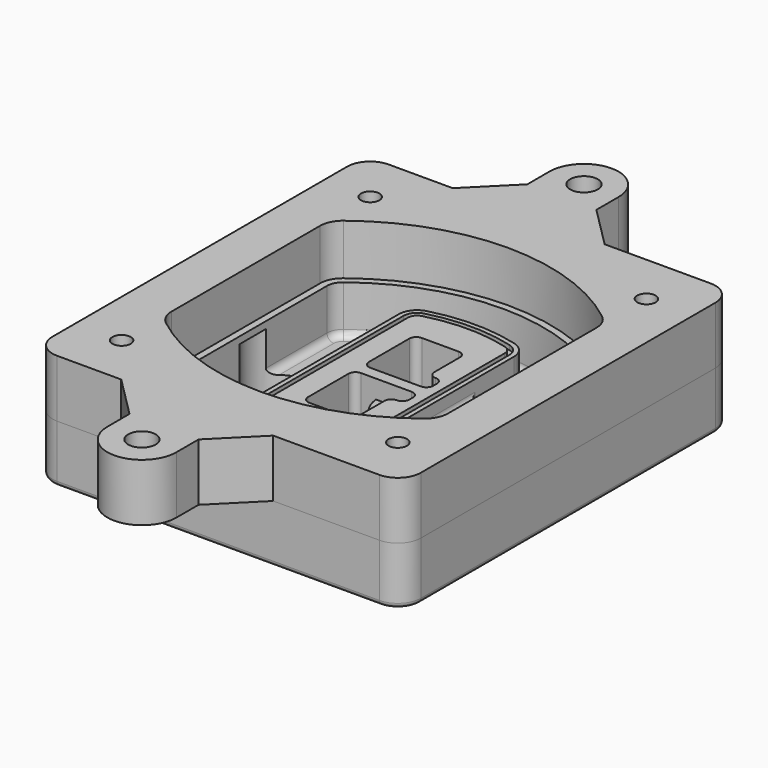
from build123d import *

# Parameters (mm, degrees)
F0_R      = 4
F1_DEPTH  = 25
F2_DEPTH  = 3
F3_DEPTH  = 18
F5_DEPTH  = 21
F6_DEPTH  = 2
F8_DEPTH  = 20
F9_DEPTH  = 16
F10_DEPTH = 25
F7_R      = 6
F7_R_2    = 4
F11_DEPTH = 6
F13_DEPTH = 9
F14_R     = 3
F15_R     = 2
F16_R     = 4
F16_R_2   = 6
F17_DEPTH = 25


with BuildPart() as f1:
    # F0 (on Top) → F1 (new body)
    with BuildSketch(Plane.XY):
        with BuildLine():
            ThreePointArc((-80, -80), (-77.0710678119, -87.0710678119), (-70, -90))
            Line((-70, -90), (70, -90))
            ThreePointArc((70, -90), (77.0710678119, -87.0710678119), (80, -80))
            Line((80, -80), (80, 80))
            ThreePointArc((80, 80), (77.0710678119, 87.0710678119), (70, 90))
            Line((70, 90), (-70, 90))
            ThreePointArc((-70, 90), (-77.0710678119, 87.0710678119), (-80, 80))
            Line((-80, 80), (-80, -80))
        make_face()
        with Locations((-60, -67.5)):
            Circle(F0_R, mode=Mode.SUBTRACT)
        with Locations((60, -67.5)):
            Circle(F0_R, mode=Mode.SUBTRACT)
        with Locations((-60, 67.5)):
            Circle(F0_R, mode=Mode.SUBTRACT)
        with BuildLine():
            ThreePointArc((-64, 40.2934422872), (-62.5820384798, 46.4328484224), (-58.6153846154, 51.3286200352))
            ThreePointArc((-58.6153846154, 51.3286200352), (0, 71.5), (58.6153846154, 51.3286200352))
            ThreePointArc((58.6153846154, 51.3286200352), (62.5820384798, 46.4328484224), (64, 40.2934422872))
            Line((64, 40.2934422872), (64, -40.2934422872))
            ThreePointArc((64, -40.2934422872), (62.5820384798, -46.4328484224), (58.6153846154, -51.3286200352))
            ThreePointArc((58.6153846154, -51.3286200352), (0, -71.5), (-58.6153846154, -51.3286200352))
            ThreePointArc((-58.6153846154, -51.3286200352), (-62.5820384798, -46.4328484224), (-64, -40.2934422872))
            Line((-64, -40.2934422872), (-64, 40.2934422872))
        make_face(mode=Mode.SUBTRACT)
        with Locations((60, 67.5)):
            Circle(F0_R, mode=Mode.SUBTRACT)
        with BuildLine():
            ThreePointArc((58.6153846154, 51.3286200352), (0, 71.5), (-58.6153846154, 51.3286200352))
            ThreePointArc((-58.6153846154, 51.3286200352), (-62.5820384798, 46.4328484224), (-64, 40.2934422872))
            Line((-64, 40.2934422872), (-64, -40.2934422872))
            ThreePointArc((-64, -40.2934422872), (-62.5820384798, -46.4328484224), (-58.6153846154, -51.3286200352))
            ThreePointArc((-58.6153846154, -51.3286200352), (0, -71.5), (58.6153846154, -51.3286200352))
            ThreePointArc((58.6153846154, -51.3286200352), (62.5820384798, -46.4328484224), (64, -40.2934422872))
            Line((64, -40.2934422872), (64, 40.2934422872))
            ThreePointArc((64, 40.2934422872), (62.5820384798, 46.4328484224), (58.6153846154, 51.3286200352))
        make_face()
        with BuildLine():
            Line((-60, -40.2934422872), (-60, 40.2934422872))
            ThreePointArc((-60, 40.2934422872), (-58.9871703427, 44.6787323838), (-56.1538461538, 48.1757121072))
            ThreePointArc((-56.1538461538, 48.1757121072), (0, 67.5), (56.1538461538, 48.1757121072))
            ThreePointArc((56.1538461538, 48.1757121072), (58.9871703427, 44.6787323838), (60, 40.2934422872))
            Line((60, 40.2934422872), (60, -40.2934422872))
            ThreePointArc((60, -40.2934422872), (58.9871703427, -44.6787323838), (56.1538461538, -48.1757121072))
            ThreePointArc((56.1538461538, -48.1757121072), (0, -67.5), (-56.1538461538, -48.1757121072))
            ThreePointArc((-56.1538461538, -48.1757121072), (-58.9871703427, -44.6787323838), (-60, -40.2934422872))
        make_face(mode=Mode.SUBTRACT)
        with BuildLine():
            ThreePointArc((-56.1538461538, 48.1757121072), (-58.9871703427, 44.6787323838), (-60, 40.2934422872))
            Line((-60, 40.2934422872), (-60, -40.2934422872))
            ThreePointArc((-60, -40.2934422872), (-58.9871703427, -44.6787323838), (-56.1538461538, -48.1757121072))
            ThreePointArc((-56.1538461538, -48.1757121072), (0, -67.5), (56.1538461538, -48.1757121072))
            ThreePointArc((56.1538461538, -48.1757121072), (58.9871703427, -44.6787323838), (60, -40.2934422872))
            Line((60, -40.2934422872), (60, 40.2934422872))
            ThreePointArc((60, 40.2934422872), (58.9871703427, 44.6787323838), (56.1538461538, 48.1757121072))
            ThreePointArc((56.1538461538, 48.1757121072), (0, 67.5), (-56.1538461538, 48.1757121072))
        make_face()
        with BuildLine():
            ThreePointArc((54.3076923077, 45.8110311612), (56.2910192399, 43.3631453548), (57, 40.2934422872))
            Line((57, 40.2934422872), (57, -40.2934422872))
            ThreePointArc((57, -40.2934422872), (56.2910192399, -43.3631453548), (54.3076923077, -45.8110311612))
            ThreePointArc((54.3076923077, -45.8110311612), (0, -64.5), (-54.3076923077, -45.8110311612))
            ThreePointArc((-54.3076923077, -45.8110311612), (-56.2910192399, -43.3631453548), (-57, -40.2934422872))
            Line((-57, -40.2934422872), (-57, 40.2934422872))
            ThreePointArc((-57, 40.2934422872), (-56.2910192399, 43.3631453548), (-54.3076923077, 45.8110311612))
            ThreePointArc((-54.3076923077, 45.8110311612), (0, 64.5), (54.3076923077, 45.8110311612))
        make_face(mode=Mode.SUBTRACT)
        with BuildLine():
            Line((57, -40.2934422872), (57, 40.2934422872))
            ThreePointArc((57, 40.2934422872), (56.2910192399, 43.3631453548), (54.3076923077, 45.8110311612))
            ThreePointArc((54.3076923077, 45.8110311612), (0, 64.5), (-54.3076923077, 45.8110311612))
            ThreePointArc((-54.3076923077, 45.8110311612), (-56.2910192399, 43.3631453548), (-57, 40.2934422872))
            Line((-57, 40.2934422872), (-57, -40.2934422872))
            ThreePointArc((-57, -40.2934422872), (-56.2910192399, -43.3631453548), (-54.3076923077, -45.8110311612))
            ThreePointArc((-54.3076923077, -45.8110311612), (0, -64.5), (54.3076923077, -45.8110311612))
            ThreePointArc((54.3076923077, -45.8110311612), (56.2910192399, -43.3631453548), (57, -40.2934422872))
        make_face()
    extrude(amount=-F1_DEPTH)

    # F0 (on Top) → F2 (join)
    with BuildSketch(Plane.XY):
        with BuildLine():
            ThreePointArc((-56.1538461538, 48.1757121072), (-58.9871703427, 44.6787323838), (-60, 40.2934422872))
            Line((-60, 40.2934422872), (-60, -40.2934422872))
            ThreePointArc((-60, -40.2934422872), (-58.9871703427, -44.6787323838), (-56.1538461538, -48.1757121072))
            ThreePointArc((-56.1538461538, -48.1757121072), (0, -67.5), (56.1538461538, -48.1757121072))
            ThreePointArc((56.1538461538, -48.1757121072), (58.9871703427, -44.6787323838), (60, -40.2934422872))
            Line((60, -40.2934422872), (60, 40.2934422872))
            ThreePointArc((60, 40.2934422872), (58.9871703427, 44.6787323838), (56.1538461538, 48.1757121072))
            ThreePointArc((56.1538461538, 48.1757121072), (0, 67.5), (-56.1538461538, 48.1757121072))
        make_face()
        with BuildLine():
            ThreePointArc((54.3076923077, 45.8110311612), (56.2910192399, 43.3631453548), (57, 40.2934422872))
            Line((57, 40.2934422872), (57, -40.2934422872))
            ThreePointArc((57, -40.2934422872), (56.2910192399, -43.3631453548), (54.3076923077, -45.8110311612))
            ThreePointArc((54.3076923077, -45.8110311612), (0, -64.5), (-54.3076923077, -45.8110311612))
            ThreePointArc((-54.3076923077, -45.8110311612), (-56.2910192399, -43.3631453548), (-57, -40.2934422872))
            Line((-57, -40.2934422872), (-57, 40.2934422872))
            ThreePointArc((-57, 40.2934422872), (-56.2910192399, 43.3631453548), (-54.3076923077, 45.8110311612))
            ThreePointArc((-54.3076923077, 45.8110311612), (0, 64.5), (54.3076923077, 45.8110311612))
        make_face(mode=Mode.SUBTRACT)
    extrude(amount=F2_DEPTH)

    # F0 (on Top) → F3 (cut)
    with BuildSketch(Plane.XY):
        with BuildLine():
            Line((57, -40.2934422872), (57, 40.2934422872))
            ThreePointArc((57, 40.2934422872), (56.2910192399, 43.3631453548), (54.3076923077, 45.8110311612))
            ThreePointArc((54.3076923077, 45.8110311612), (0, 64.5), (-54.3076923077, 45.8110311612))
            ThreePointArc((-54.3076923077, 45.8110311612), (-56.2910192399, 43.3631453548), (-57, 40.2934422872))
            Line((-57, 40.2934422872), (-57, -40.2934422872))
            ThreePointArc((-57, -40.2934422872), (-56.2910192399, -43.3631453548), (-54.3076923077, -45.8110311612))
            ThreePointArc((-54.3076923077, -45.8110311612), (0, -64.5), (54.3076923077, -45.8110311612))
            ThreePointArc((54.3076923077, -45.8110311612), (56.2910192399, -43.3631453548), (57, -40.2934422872))
        make_face()
    extrude(amount=-F3_DEPTH, mode=Mode.SUBTRACT)

    # F4 (on face) → F5 (join, through all)
    with BuildSketch(Plane.XY.offset(3)):
        with BuildLine():
            ThreePointArc((-25, -39.2465276821), (-23.3511545998, -44.1109737193), (-19.0842911877, -46.9702398883))
            ThreePointArc((-19.0842911877, -46.9702398883), (0, -49.5), (19.0842911877, -46.9702398883))
            ThreePointArc((19.0842911877, -46.9702398883), (23.3511545998, -44.1109737193), (25, -39.2465276821))
            Line((25, -39.2465276821), (25, 39.2465276821))
            ThreePointArc((25, 39.2465276821), (23.3511545998, 44.1109737193), (19.0842911877, 46.9702398883))
            ThreePointArc((19.0842911877, 46.9702398883), (0, 49.5), (-19.0842911877, 46.9702398883))
            ThreePointArc((-19.0842911877, 46.9702398883), (-23.3511545998, 44.1109737193), (-25, 39.2465276821))
            Line((-25, 39.2465276821), (-25, -39.2465276821))
        make_face()
        with BuildLine():
            ThreePointArc((18.5632183908, 45.0393118368), (21.7633659499, 42.89486221), (23, 39.2465276821))
            Line((23, 39.2465276821), (23, -39.2465276821))
            ThreePointArc((23, -39.2465276821), (21.7633659499, -42.89486221), (18.5632183908, -45.0393118368))
            ThreePointArc((18.5632183908, -45.0393118368), (0, -47.5), (-18.5632183908, -45.0393118368))
            ThreePointArc((-18.5632183908, -45.0393118368), (-21.7633659499, -42.89486221), (-23, -39.2465276821))
            Line((-23, -39.2465276821), (-23, 39.2465276821))
            ThreePointArc((-23, 39.2465276821), (-21.7633659499, 42.89486221), (-18.5632183908, 45.0393118368))
            ThreePointArc((-18.5632183908, 45.0393118368), (0, 47.5), (18.5632183908, 45.0393118368))
        make_face(mode=Mode.SUBTRACT)
        with BuildLine():
            Line((23, -39.2465276821), (23, 39.2465276821))
            ThreePointArc((23, 39.2465276821), (21.7633659499, 42.89486221), (18.5632183908, 45.0393118368))
            ThreePointArc((18.5632183908, 45.0393118368), (0, 47.5), (-18.5632183908, 45.0393118368))
            ThreePointArc((-18.5632183908, 45.0393118368), (-21.7633659499, 42.89486221), (-23, 39.2465276821))
            Line((-23, 39.2465276821), (-23, -39.2465276821))
            ThreePointArc((-23, -39.2465276821), (-21.7633659499, -42.89486221), (-18.5632183908, -45.0393118368))
            ThreePointArc((-18.5632183908, -45.0393118368), (0, -47.5), (18.5632183908, -45.0393118368))
            ThreePointArc((18.5632183908, -45.0393118368), (21.7633659499, -42.89486221), (23, -39.2465276821))
        make_face()
        with BuildLine():
            ThreePointArc((18.0421455939, 43.1083837852), (20.1755772999, 41.6787507007), (21, 39.2465276821))
            Line((21, 39.2465276821), (21, -39.2465276821))
            ThreePointArc((21, -39.2465276821), (20.1755772999, -41.6787507007), (18.0421455939, -43.1083837852))
            ThreePointArc((18.0421455939, -43.1083837852), (0, -45.5), (-18.0421455939, -43.1083837852))
            ThreePointArc((-18.0421455939, -43.1083837852), (-20.1755772999, -41.6787507007), (-21, -39.2465276821))
            Line((-21, -39.2465276821), (-21, 39.2465276821))
            ThreePointArc((-21, 39.2465276821), (-20.1755772999, 41.6787507007), (-18.0421455939, 43.1083837852))
            ThreePointArc((-18.0421455939, 43.1083837852), (0, 45.5), (18.0421455939, 43.1083837852))
        make_face(mode=Mode.SUBTRACT)
        with BuildLine():
            Line((21, -39.2465276821), (21, 39.2465276821))
            ThreePointArc((21, 39.2465276821), (20.1755772999, 41.6787507007), (18.0421455939, 43.1083837852))
            ThreePointArc((18.0421455939, 43.1083837852), (0, 45.5), (-18.0421455939, 43.1083837852))
            ThreePointArc((-18.0421455939, 43.1083837852), (-20.1755772999, 41.6787507007), (-21, 39.2465276821))
            Line((-21, 39.2465276821), (-21, -39.2465276821))
            ThreePointArc((-21, -39.2465276821), (-20.1755772999, -41.6787507007), (-18.0421455939, -43.1083837852))
            ThreePointArc((-18.0421455939, -43.1083837852), (0, -45.5), (18.0421455939, -43.1083837852))
            ThreePointArc((18.0421455939, -43.1083837852), (20.1755772999, -41.6787507007), (21, -39.2465276821))
        make_face()
        with BuildLine():
            Line((-8, -2.5), (14, -2.5))
            ThreePointArc((14, -2.5), (16.1213203436, -3.3786796564), (17, -5.5))
            Line((17, -5.5), (17, -7.5))
            ThreePointArc((17, -7.5), (16.1213203436, -9.6213203436), (14, -10.5))
            ThreePointArc((14, -10.5), (11.8786796564, -11.3786796564), (11, -13.5))
            Line((11, -13.5), (11, -27.5))
            ThreePointArc((11, -27.5), (10.1213203436, -29.6213203436), (8, -30.5))
            Line((8, -30.5), (-8, -30.5))
            ThreePointArc((-8, -30.5), (-10.1213203436, -29.6213203436), (-11, -27.5))
            Line((-11, -27.5), (-11, -5.5))
            ThreePointArc((-11, -5.5), (-10.1213203436, -3.3786796564), (-8, -2.5))
        make_face(mode=Mode.SUBTRACT)
        with BuildLine():
            ThreePointArc((-8, 2.5), (-10.1213203436, 3.3786796564), (-11, 5.5))
            Line((-11, 5.5), (-11, 27.5))
            ThreePointArc((-11, 27.5), (-10.1213203436, 29.6213203436), (-8, 30.5))
            Line((-8, 30.5), (8, 30.5))
            ThreePointArc((8, 30.5), (10.1213203436, 29.6213203436), (11, 27.5))
            Line((11, 27.5), (11, 13.5))
            ThreePointArc((11, 13.5), (11.8786796564, 11.3786796564), (14, 10.5))
            ThreePointArc((14, 10.5), (16.1213203436, 9.6213203436), (17, 7.5))
            Line((17, 7.5), (17, 5.5))
            ThreePointArc((17, 5.5), (16.1213203436, 3.3786796564), (14, 2.5))
            Line((14, 2.5), (-8, 2.5))
        make_face(mode=Mode.SUBTRACT)
    extrude(amount=-F5_DEPTH)

    # F4 (on face) → F6 (cut)
    with BuildSketch(Plane.XY.offset(3)):
        with BuildLine():
            Line((23, -39.2465276821), (23, 39.2465276821))
            ThreePointArc((23, 39.2465276821), (21.7633659499, 42.89486221), (18.5632183908, 45.0393118368))
            ThreePointArc((18.5632183908, 45.0393118368), (0, 47.5), (-18.5632183908, 45.0393118368))
            ThreePointArc((-18.5632183908, 45.0393118368), (-21.7633659499, 42.89486221), (-23, 39.2465276821))
            Line((-23, 39.2465276821), (-23, -39.2465276821))
            ThreePointArc((-23, -39.2465276821), (-21.7633659499, -42.89486221), (-18.5632183908, -45.0393118368))
            ThreePointArc((-18.5632183908, -45.0393118368), (0, -47.5), (18.5632183908, -45.0393118368))
            ThreePointArc((18.5632183908, -45.0393118368), (21.7633659499, -42.89486221), (23, -39.2465276821))
        make_face()
        with BuildLine():
            ThreePointArc((18.0421455939, 43.1083837852), (20.1755772999, 41.6787507007), (21, 39.2465276821))
            Line((21, 39.2465276821), (21, -39.2465276821))
            ThreePointArc((21, -39.2465276821), (20.1755772999, -41.6787507007), (18.0421455939, -43.1083837852))
            ThreePointArc((18.0421455939, -43.1083837852), (0, -45.5), (-18.0421455939, -43.1083837852))
            ThreePointArc((-18.0421455939, -43.1083837852), (-20.1755772999, -41.6787507007), (-21, -39.2465276821))
            Line((-21, -39.2465276821), (-21, 39.2465276821))
            ThreePointArc((-21, 39.2465276821), (-20.1755772999, 41.6787507007), (-18.0421455939, 43.1083837852))
            ThreePointArc((-18.0421455939, 43.1083837852), (0, 45.5), (18.0421455939, 43.1083837852))
        make_face(mode=Mode.SUBTRACT)
    extrude(amount=-F6_DEPTH, mode=Mode.SUBTRACT)

    # F7 (on face) → F8 (join)
    with BuildSketch(Plane(origin=(0, 0, -25), x_dir=(1, 0, 0), z_dir=(0, 0, -1))):
        with BuildLine():
            ThreePointArc((3.28842436, 0), (16.7567035675, 13.4682792075), (30.224982775, 0))
            Line((30.224982775, 0), (35.224982775, 0))
            ThreePointArc((35.224982775, 0), (16.7567035675, 18.4682792075), (-1.71157564, 0))
            Line((-1.71157564, 0), (3.28842436, 0))
        make_face()
        with BuildLine():
            Line((3.28842436, 0), (30.224982775, 0))
            ThreePointArc((30.224982775, 0), (16.7567035675, 13.4682792075), (3.28842436, 0))
        make_face()
        with BuildLine():
            ThreePointArc((3.28842436, 0), (16.7567035675, -13.4682792075), (30.224982775, 0))
            Line((30.224982775, 0), (3.28842436, 0))
        make_face()
        with BuildLine():
            Line((35.224982775, 0), (30.224982775, 0))
            ThreePointArc((30.224982775, 0), (16.7567035675, -13.4682792075), (3.28842436, 0))
            Line((3.28842436, 0), (-1.71157564, 0))
            ThreePointArc((-1.71157564, 0), (16.7567035675, -18.4682792075), (35.224982775, 0))
        make_face()
    extrude(amount=-F8_DEPTH)

    # F7 (on face) → F9 (cut)
    with BuildSketch(Plane(origin=(0, 0, -25), x_dir=(1, 0, 0), z_dir=(0, 0, -1))):
        with BuildLine():
            Line((3.28842436, 0), (30.224982775, 0))
            ThreePointArc((30.224982775, 0), (16.7567035675, 13.4682792075), (3.28842436, 0))
        make_face()
        with BuildLine():
            ThreePointArc((3.28842436, 0), (16.7567035675, -13.4682792075), (30.224982775, 0))
            Line((30.224982775, 0), (3.28842436, 0))
        make_face()
    extrude(amount=-F9_DEPTH, mode=Mode.SUBTRACT)

    # F7 (on face) → F10 (cut)
    with BuildSketch(Plane(origin=(0, 0, -25), x_dir=(1, 0, 0), z_dir=(0, 0, -1))):
        with BuildLine():
            Line((-59.0318229325, 0), (-32.0952645175, 0))
            ThreePointArc((-32.0952645175, 0), (-45.563543725, 13.4682792075), (-59.0318229325, 0))
        make_face()
        with BuildLine():
            ThreePointArc((-59.0318229325, 0), (-45.563543725, -13.4682792075), (-32.0952645175, 0))
            Line((-32.0952645175, 0), (-59.0318229325, 0))
        make_face()
    extrude(amount=-F10_DEPTH, mode=Mode.SUBTRACT)

    # F7 (on face) → F11 (cut)
    with BuildSketch(Plane(origin=(0, 0, -25), x_dir=(1, 0, 0), z_dir=(0, 0, -1))):
        with Locations((60, -67.5)):
            Circle(F7_R)
        with Locations((60, -67.5)):
            Circle(F7_R_2, mode=Mode.SUBTRACT)
        with Locations((60, -67.5)):
            Circle(F7_R)
        with Locations((60, -67.5)):
            Circle(F7_R_2, mode=Mode.SUBTRACT)
        with Locations((-60, -67.5)):
            Circle(F7_R)
        with Locations((-60, -67.5)):
            Circle(F7_R_2, mode=Mode.SUBTRACT)
        with Locations((-60, -67.5)):
            Circle(F7_R)
        with Locations((-60, -67.5)):
            Circle(F7_R_2, mode=Mode.SUBTRACT)
        with Locations((-60, 67.5)):
            Circle(F7_R)
        with Locations((-60, 67.5)):
            Circle(F7_R_2, mode=Mode.SUBTRACT)
        with Locations((-60, 67.5)):
            Circle(F7_R)
        with Locations((-60, 67.5)):
            Circle(F7_R_2, mode=Mode.SUBTRACT)
        with Locations((60, 67.5)):
            Circle(F7_R)
        with Locations((60, 67.5)):
            Circle(F7_R_2, mode=Mode.SUBTRACT)
        with Locations((60, 67.5)):
            Circle(F7_R)
        with Locations((60, 67.5)):
            Circle(F7_R_2, mode=Mode.SUBTRACT)
    extrude(amount=-F11_DEPTH, mode=Mode.SUBTRACT)

    # F12 (on face) → F13 (cut, through all)
    with BuildSketch(Plane(origin=(0, 0, -9), x_dir=(1, 0, 0), z_dir=(0, 0, -1))):
        with BuildLine():
            Line((11, 13.5), (11, 17.5481537753))
            ThreePointArc((11, 17.5481537753), (2.5696536419, 11.8239143813), (-1.5415842455, 2.5))
            Line((-1.5415842455, 2.5), (3.5224848595, 2.5))
            ThreePointArc((3.5224848595, 2.5), (6.1857188154, 8.3455872281), (11.2536447004, 12.2927168648))
            ThreePointArc((11.2536447004, 12.2927168648), (11.0640958889, 12.8831798879), (11, 13.5))
        make_face()
        with BuildLine():
            ThreePointArc((11.2536447004, -12.2927168648), (6.1857188154, -8.3455872281), (3.5224848595, -2.5))
            Line((3.5224848595, -2.5), (-1.5415842455, -2.5))
            ThreePointArc((-1.5415842455, -2.5), (2.5696536419, -11.8239143813), (11, -17.5481537753))
            Line((11, -17.5481537753), (11, -13.5))
            ThreePointArc((11, -13.5), (11.0640958889, -12.8831798879), (11.2536447004, -12.2927168648))
        make_face()
        with BuildLine():
            ThreePointArc((11.2536447004, 12.2927168648), (6.1857188154, 8.3455872281), (3.5224848595, 2.5))
            Line((3.5224848595, 2.5), (14, 2.5))
            ThreePointArc((14, 2.5), (16.1213203436, 3.3786796564), (17, 5.5))
            Line((17, 5.5), (17, 7.5))
            ThreePointArc((17, 7.5), (16.1213203436, 9.6213203436), (14, 10.5))
            ThreePointArc((14, 10.5), (12.3601599782, 10.9878446101), (11.2536447004, 12.2927168648))
        make_face()
        with BuildLine():
            Line((14, -2.5), (3.5224848595, -2.5))
            ThreePointArc((3.5224848595, -2.5), (6.1857188154, -8.3455872281), (11.2536447004, -12.2927168648))
            ThreePointArc((11.2536447004, -12.2927168648), (12.3601599782, -10.9878446101), (14, -10.5))
            ThreePointArc((14, -10.5), (16.1213203436, -9.6213203436), (17, -7.5))
            Line((17, -7.5), (17, -5.5))
            ThreePointArc((17, -5.5), (16.1213203436, -3.3786796564), (14, -2.5))
        make_face()
    extrude(amount=F13_DEPTH, mode=Mode.SUBTRACT)

    # F14
    f14_edges = [f1.edges().sort_by_distance(p)[0] for p in [
        (-57, -23.703476, -18),
        (-57, 23.703476, -18),
        (25, 0, -5),
        (25, 16.526506, -11.5),
        (25, -16.526506, -11.5),
        (25, -27.886517, -18),
        (35.224983, 0, -18),
    ]]
    fillet(f14_edges, radius=F14_R)

    # F15
    f15_edges = [f1.edges().sort_by_distance(p)[0] for p in [
        (0, -90, -25),
    ]]
    fillet(f15_edges, radius=F15_R)


with BuildPart() as f17:
    # F16 (on face) → F17 (new body)
    with BuildSketch(Plane.XY):
        with BuildLine():
            Line((-80, 80), (-80, -80))
            ThreePointArc((-80, -80), (-77.0710678119, -87.0710678119), (-70, -90))
            Line((-70, -90), (-42.1477538441, -90))
            Line((-42.1477538441, -90), (23.8522461559, -90))
            Line((23.8522461559, -90), (70, -90))
            ThreePointArc((70, -90), (77.0710678119, -87.0710678119), (80, -80))
            Line((80, -80), (80, 80))
            ThreePointArc((80, 80), (77.0710678119, 87.0710678119), (70, 90))
            Line((70, 90), (23.8522461559, 90))
            Line((23.8522461559, 90), (-42.1477538441, 90))
            Line((-42.1477538441, 90), (-70, 90))
            ThreePointArc((-70, 90), (-77.0710678119, 87.0710678119), (-80, 80))
        make_face()
        with Locations((-60, -67.5)):
            Circle(F16_R, mode=Mode.SUBTRACT)
        with Locations((60, -67.5)):
            Circle(F16_R, mode=Mode.SUBTRACT)
        with Locations((-60, 67.5)):
            Circle(F16_R, mode=Mode.SUBTRACT)
        with BuildLine():
            Line((-60, -40.2934422872), (-60, 40.2934422872))
            ThreePointArc((-60, 40.2934422872), (-58.9871703427, 44.6787323838), (-56.1538461538, 48.1757121072))
            ThreePointArc((-56.1538461538, 48.1757121072), (0, 67.5), (56.1538461538, 48.1757121072))
            ThreePointArc((56.1538461538, 48.1757121072), (58.9871703427, 44.6787323838), (60, 40.2934422872))
            Line((60, 40.2934422872), (60, -40.2934422872))
            ThreePointArc((60, -40.2934422872), (58.9871703427, -44.6787323838), (56.1538461538, -48.1757121072))
            ThreePointArc((56.1538461538, -48.1757121072), (0, -67.5), (-56.1538461538, -48.1757121072))
            ThreePointArc((-56.1538461538, -48.1757121072), (-58.9871703427, -44.6787323838), (-60, -40.2934422872))
        make_face(mode=Mode.SUBTRACT)
        with Locations((60, 67.5)):
            Circle(F16_R, mode=Mode.SUBTRACT)
        with BuildLine():
            Line((-24.1477538441, 108), (-42.1477538441, 90))
            Line((-42.1477538441, 90), (23.8522461559, 90))
            Line((23.8522461559, 90), (5.8522461559, 108))
            Line((5.8522461559, 108), (5.8522461559, 120))
            ThreePointArc((5.8522461559, 120), (-9.1477538441, 135), (-24.1477538441, 120))
            Line((-24.1477538441, 120), (-24.1477538441, 108))
        make_face()
        with Locations((-9.1477538441, 120)):
            Circle(F16_R_2, mode=Mode.SUBTRACT)
        with BuildLine():
            Line((23.8522461559, -90), (-42.1477538441, -90))
            Line((-42.1477538441, -90), (-24.1477538441, -108))
            Line((-24.1477538441, -108), (-24.1477538441, -120))
            ThreePointArc((-24.1477538441, -120), (-9.1477538441, -135), (5.8522461559, -120))
            Line((5.8522461559, -120), (5.8522461559, -108))
            Line((5.8522461559, -108), (23.8522461559, -90))
        make_face()
        with Locations((-9.1477538441, -120)):
            Circle(F16_R_2, mode=Mode.SUBTRACT)
    extrude(amount=F17_DEPTH)


solid = Compound([f1.part, f17.part])
